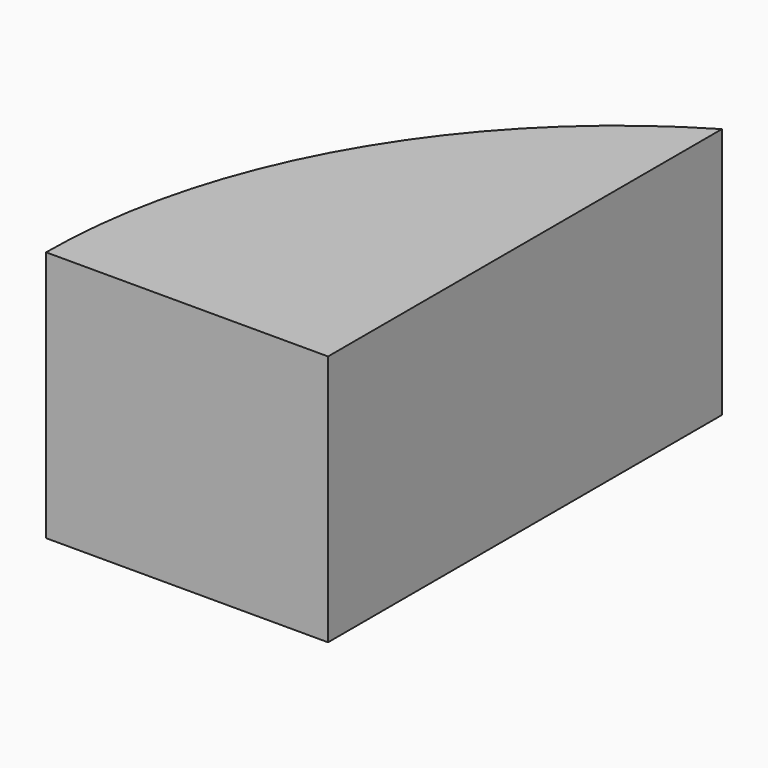
from build123d import *

# Parameters (mm, degrees)
F0_W       = 73.452597484
F0_H       = 48.9088147879
F1_DEPTH   = 25
F1_FACE1_W = 48.9088147879
F1_FACE1_H = 25


with BuildPart() as f1:
    # F0 (on Top) → F1 (new body)
    with BuildSketch(Plane.XY):
        with Locations((-31.4839603379, 24.4544073939)):
            Rectangle(F0_W, F0_H)
    extrude(amount=F1_DEPTH)

    # F1_face1 (on face) → F3 (revolve, intersect)
    with BuildSketch(Plane(origin=(5.2423384041, 24.4544073939, 12.5), x_dir=(0, 1, 0), z_dir=(1, 0, 0))):
        Rectangle(F1_FACE1_W, F1_FACE1_H)
    revolve(axis=Axis((33.9386798441, 0, 11.1382296309), (0, 0, -1)), mode=Mode.INTERSECT)


solid = f1.part
